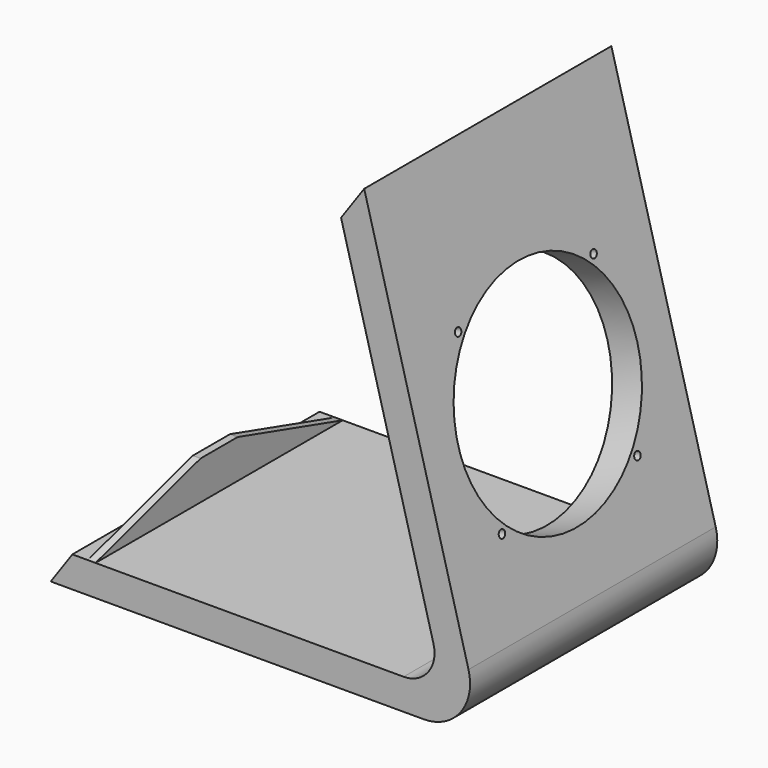
from build123d import *

# Parameters (mm, degrees)
F1_DEPTH = 200
F2_R     = 72.5
F2_R_2   = 2.5
F3_DEPTH = 20
F4_R     = 20
F5_R     = 30
F6_W     = 5
F6_H     = 200
F7_DEPTH = 25
F9_DEPTH = 25


with BuildPart() as f1:
    # F0 (on Front) → F1 (new body)
    with BuildSketch(Plane.XZ):
        Polygon((14.0041507642, 20), (0, 0), (280.5502770065, 0), (202.9045634757, 289.7777478867), (187.9295462557, 268.391206893), (254.4857695496, 20), align=None)
    extrude(amount=F1_DEPTH)

    # F2 (on face) → F3 (cut, through all)
    with BuildSketch(Plane(origin=(261.7569719664, 0, 70.1375692516), x_dir=(0, 1, 0), z_dir=(0.9659258263, 0, 0.2588190451))):
        with Locations((-100, 77.3882452019)):
            Circle(F2_R)
        with Locations((-154.8, 132.1882452019)):
            Circle(F2_R_2)
        with Locations((-45.2, 132.1882452019)):
            Circle(F2_R_2)
        with Locations((-45.2, 22.5882452019)):
            Circle(F2_R_2)
        with Locations((-154.8, 22.5882452019)):
            Circle(F2_R_2)
    extrude(amount=-F3_DEPTH, mode=Mode.SUBTRACT)

    # F4
    f4_edges = [f1.edges().sort_by_distance(p)[0] for p in [
        (254.48577, -100, 20),
    ]]
    fillet(f4_edges, radius=F4_R)

    # F5
    f5_edges = [f1.edges().sort_by_distance(p)[0] for p in [
        (280.550277, -100, 0),
    ]]
    fillet(f5_edges, radius=F5_R)

    # F6 (on face) → F7 (join)
    with BuildSketch(Plane.XY.offset(20)):
        with Locations((26.5041507642, -100)):
            Rectangle(F6_W, F6_H)
    extrude(amount=F7_DEPTH)

    # F8 (on face) → F9 (cut)
    with BuildSketch(Plane(origin=(24.0041507642, 0, 0), x_dir=(0, -1, 0), z_dir=(-1, 0, 0))):
        Polygon((0, 20), (85, 45), (0, 45), align=None)
        Polygon((200, 45), (115, 45), (200, 20), align=None)
    extrude(amount=-F9_DEPTH, mode=Mode.SUBTRACT)


solid = f1.part
